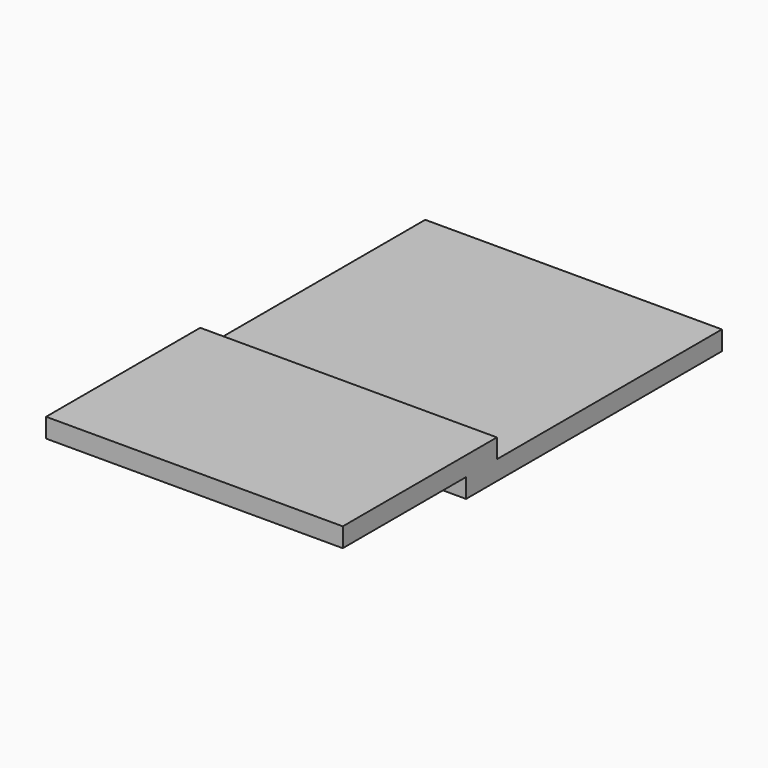
from build123d import *

# Parameters (mm, degrees)
F0_W     = 15.4
F0_H     = 16.6
F1_DEPTH = 1
F3_W     = 15.4
F3_H     = 10
F4_DEPTH = 1


with BuildPart() as f1:
    # F0 (on Top) → F1 (new body)
    with BuildSketch(Plane.XY):
        Rectangle(F0_W, F0_H)
    extrude(amount=F1_DEPTH)

    # F3 (on offset) → F4 (join, through all)
    with BuildSketch(Plane.XY.offset(2)):
        with Locations((0, -11.3)):
            Rectangle(F3_W, F3_H)
    extrude(amount=-F4_DEPTH)


solid = f1.part
